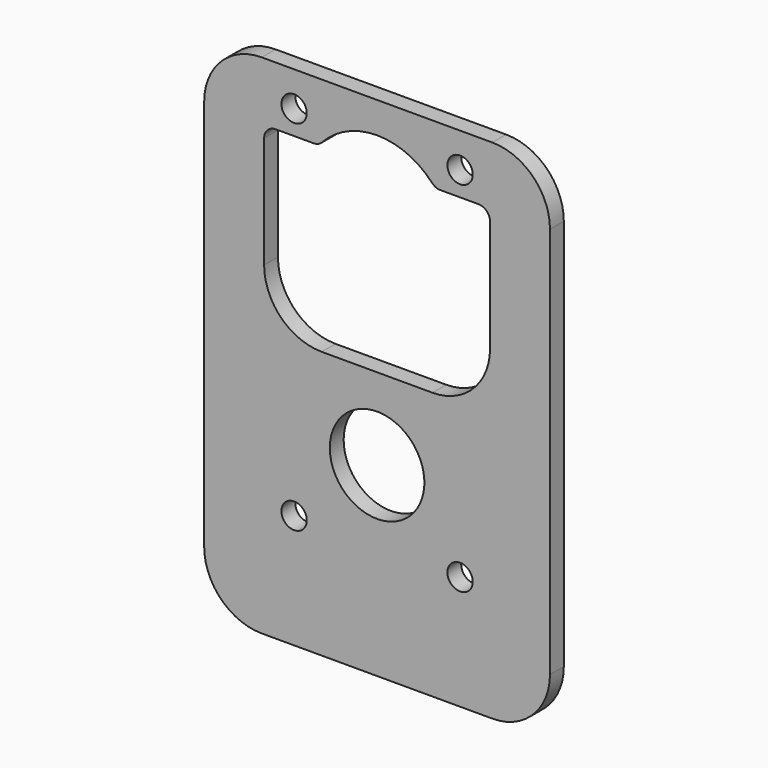
from build123d import *

# Parameters (mm, degrees)
F0_W     = 74.4
F0_H     = 39.6
F0_R     = 1
F0_R_2   = 4.1
F1_DEPTH = 1.5
F2_W     = 30
F2_H     = 1.5
F3_DEPTH = 44
F4_R     = 1.1
F4_R_2   = 4.1
F5_DEPTH = 1.5
F6_R     = 5
F7_W     = 74.4
F7_H     = 39.6
F8_DEPTH = 1.5
F9_R     = 5


with BuildPart() as f1:
    # F0 (on Top) → F1 (new body)
    with BuildSketch(Plane.XY):
        Rectangle(F0_W, F0_H)
        with Locations((-32.2, -16.8)):
            Circle(F0_R, mode=Mode.SUBTRACT)
        with Locations((-25, -10.6)):
            Circle(F0_R_2, mode=Mode.SUBTRACT)
        with Locations((-17.8, -16.8)):
            Circle(F0_R, mode=Mode.SUBTRACT)
        with Locations((17.8, -16.8)):
            Circle(F0_R, mode=Mode.SUBTRACT)
        with Locations((32.2, -16.8)):
            Circle(F0_R, mode=Mode.SUBTRACT)
        with Locations((25, -10.6)):
            Circle(F0_R_2, mode=Mode.SUBTRACT)
        with BuildLine():
            ThreePointArc((-34.8, 11.6), (-34.507107, 12.307107), (-33.8, 12.6))
            Line((-33.8, 12.6), (-30.123475, 12.6))
            ThreePointArc((-30.123475, 12.6), (-25, 15.1), (-19.876525, 12.6))
            Line((-19.876525, 12.6), (-16.2, 12.6))
            ThreePointArc((-16.2, 12.6), (-15.492893, 12.307107), (-15.2, 11.6))
            Line((-15.2, 11.6), (-15.2, 1.9))
            ThreePointArc((-15.2, 1.9), (-16.664466, -1.635534), (-20.2, -3.1))
            Line((-20.2, -3.1), (-29.8, -3.1))
            ThreePointArc((-29.8, -3.1), (-33.335534, -1.635534), (-34.8, 1.9))
            Line((-34.8, 1.9), (-34.8, 11.6))
        make_face(mode=Mode.SUBTRACT)
        with Locations((-32.2, 14.8)):
            Circle(F0_R, mode=Mode.SUBTRACT)
        with Locations((-17.8, 14.8)):
            Circle(F0_R, mode=Mode.SUBTRACT)
        with BuildLine():
            Line((15.2, 1.9), (15.2, 11.6))
            ThreePointArc((15.2, 11.6), (15.492893, 12.307107), (16.2, 12.6))
            Line((16.2, 12.6), (19.876525, 12.6))
            ThreePointArc((19.876525, 12.6), (25, 15.1), (30.123475, 12.6))
            Line((30.123475, 12.6), (33.8, 12.6))
            ThreePointArc((33.8, 12.6), (34.507107, 12.307107), (34.8, 11.6))
            Line((34.8, 11.6), (34.8, 1.9))
            ThreePointArc((34.8, 1.9), (33.335534, -1.635534), (29.8, -3.1))
            Line((29.8, -3.1), (20.2, -3.1))
            ThreePointArc((20.2, -3.1), (16.664466, -1.635534), (15.2, 1.9))
        make_face(mode=Mode.SUBTRACT)
        with Locations((17.8, 14.8)):
            Circle(F0_R, mode=Mode.SUBTRACT)
        with Locations((32.2, 14.8)):
            Circle(F0_R, mode=Mode.SUBTRACT)
    extrude(amount=F1_DEPTH)

    # F2 (on Top) → F3 (join)
    with BuildSketch(Plane.XY):
        with Locations((0, 20.55)):
            Rectangle(F2_W, F2_H)
    extrude(amount=F3_DEPTH)

    # F4 (on face) → F5 (cut, through all)
    with BuildSketch(Plane(origin=(0, 21.3, 0), x_dir=(-1, 0, 0), z_dir=(0, 1, 0))):
        with Locations((7.2, 41)):
            Circle(F4_R)
        with Locations((7.2, 9.9)):
            Circle(F4_R)
        with Locations((0, 16.1)):
            Circle(F4_R_2)
        with BuildLine():
            ThreePointArc((9.8, 37.9), (9.507107, 38.607107), (8.8, 38.9))
            Line((8.8, 38.9), (5.499091, 38.9))
            ThreePointArc((5.499091, 38.9), (5.099091, 38.983485), (4.765879, 39.22))
            ThreePointArc((4.765879, 39.22), (0, 41.3), (-4.765879, 39.22))
            ThreePointArc((-4.765879, 39.22), (-5.099091, 38.983485), (-5.499091, 38.9))
            Line((-5.499091, 38.9), (-8.8, 38.9))
            ThreePointArc((-8.8, 38.9), (-9.507107, 38.607107), (-9.8, 37.9))
            Line((-9.8, 37.9), (-9.8, 28.2))
            ThreePointArc((-9.8, 28.2), (-8.335534, 24.664466), (-4.8, 23.2))
            Line((-4.8, 23.2), (4.8, 23.2))
            ThreePointArc((4.8, 23.2), (8.335534, 24.664466), (9.8, 28.2))
            Line((9.8, 28.2), (9.8, 37.9))
        make_face()
        with Locations((-7.2, 41)):
            Circle(F4_R)
        with Locations((-7.2, 9.9)):
            Circle(F4_R)
    extrude(amount=-F5_DEPTH, mode=Mode.SUBTRACT)

    # F6
    f6_edges = [f1.edges().sort_by_distance(p)[0] for p in [
        (-37.2, 19.8, 0.75),
        (-37.2, -19.8, 0.75),
        (37.2, 19.8, 0.75),
        (37.2, -19.8, 0.75),
        (-15, 20.55, 44),
        (15, 20.55, 44),
    ]]
    fillet(f6_edges, radius=F6_R)

    # F7 (on face) → F8 (cut, through all)
    with BuildSketch(Plane.XY.offset(1.5)):
        Rectangle(F7_W, F7_H)
    extrude(amount=-F8_DEPTH, mode=Mode.SUBTRACT)

    # F9
    f9_edges = [f1.edges().sort_by_distance(p)[0] for p in [
        (-15, 20.55, 0),
        (15, 20.55, 0),
    ]]
    fillet(f9_edges, radius=F9_R)


solid = f1.part
